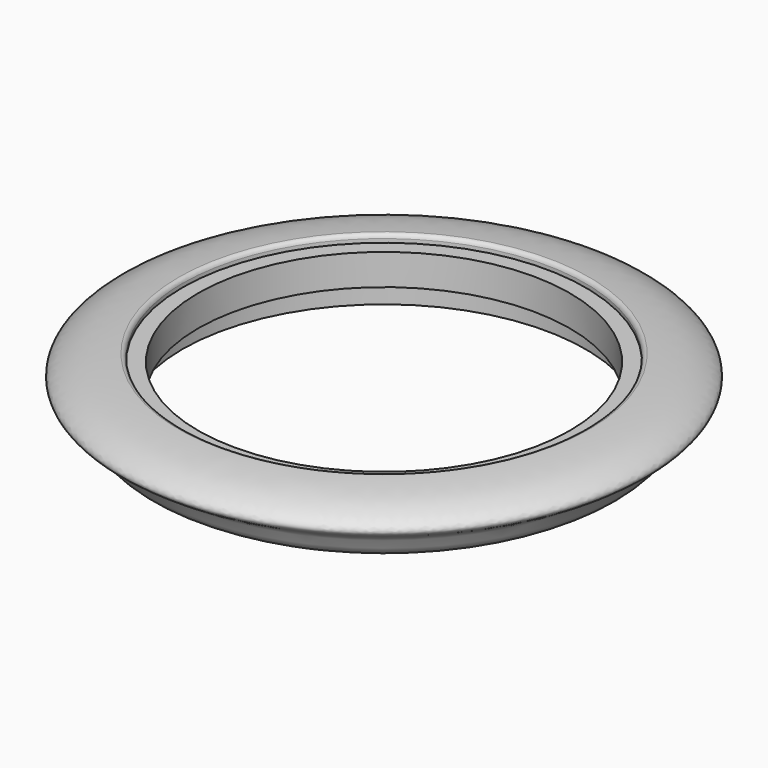
from build123d import *

# Parameters (mm, degrees)
F3_R = 3.175


with BuildPart() as f2:
    # F1 (on Front) → F2 (revolve)
    with BuildSketch(Plane.XZ):
        with BuildLine():
            Line((-165.1, 0), (-152.4, 0))
            Line((-152.4, 0), (-152.4, 25.4))
            Line((-152.4, 25.4), (-165.1, 25.4))
            Line((-165.1, 25.4), (-165.1, 31.75))
            add(Edge.make_bspline(
                [(-165.1, -19.05), (-173.6446641297, -18.9837780367), (-181.2460331174, -19.3475446829), (-194.0075645783, -11.022645064), (-195.3869539015, 3.9754763893), (-224.8387234307, 12.9802804063), (-200.1375677161, 29.6974381017), (-176.9911993258, 31.3777180289), (-165.1, 31.75)],
                knots=[0, 0, 0, 0, 0.1567613221, 0.2896699988, 0.4324502723, 0.6058333187, 0.7678080364, 1, 1, 1, 1], degree=3))
            Line((-165.1, -19.05), (-165.1, 0))
        make_face()
    revolve(axis=Axis((0, 0, -4.2362962902), (0, 0, -1)))

    # F3
    f3_edges = [f2.edges().sort_by_distance(p)[0] for p in [
        (165.1, 0, 31.75),
    ]]
    fillet(f3_edges, radius=F3_R)


solid = f2.part
